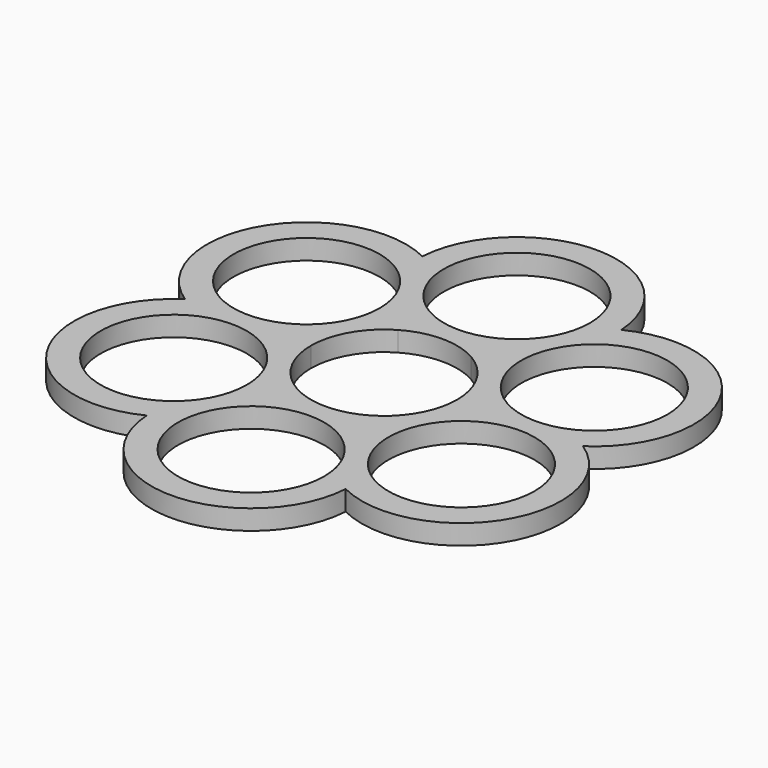
from build123d import *

# Parameters (mm, degrees)
F0_R     = 11
F1_DEPTH = 3


with BuildPart() as f1:
    # F0 (on Top) → F1 (new body)
    with BuildSketch(Plane.XY):
        with BuildLine():
            ThreePointArc((29.942197, 0), (34.641016, 20), (14.971099, 25.930703))
            ThreePointArc((14.971099, 25.930703), (0, 40), (-14.971099, 25.930703))
            ThreePointArc((-14.971099, 25.930703), (-34.641016, 20), (-29.942197, 0))
            ThreePointArc((-29.942197, 0), (-34.641016, -20), (-14.971099, -25.930703))
            ThreePointArc((-14.971099, -25.930703), (0, -40), (14.971099, -25.930703))
            ThreePointArc((14.971099, -25.930703), (34.641016, -20), (29.942197, 0))
        make_face()
        with Locations((-21.650635, -12.5)):
            Circle(F0_R, mode=Mode.SUBTRACT)
        with Locations((0, -25)):
            Circle(F0_R, mode=Mode.SUBTRACT)
        with Locations((21.650635, -12.5)):
            Circle(F0_R, mode=Mode.SUBTRACT)
        with Locations((-21.650635, 12.5)):
            Circle(F0_R, mode=Mode.SUBTRACT)
        with BuildLine():
            ThreePointArc((-5.5, 9.526279), (0, 11), (5.5, 9.526279))
            ThreePointArc((5.5, 9.526279), (9.526279, 5.5), (11, 0))
            ThreePointArc((11, 0), (9.526279, -5.5), (5.5, -9.526279))
            ThreePointArc((5.5, -9.526279), (0, -11), (-5.5, -9.526279))
            ThreePointArc((-5.5, -9.526279), (-9.526279, -5.5), (-11, 0))
            ThreePointArc((-11, 0), (-9.526279, 5.5), (-5.5, 9.526279))
        make_face(mode=Mode.SUBTRACT)
        with Locations((21.650635, 12.5)):
            Circle(F0_R, mode=Mode.SUBTRACT)
        with Locations((0, 25)):
            Circle(F0_R, mode=Mode.SUBTRACT)
    extrude(amount=F1_DEPTH)


solid = f1.part
